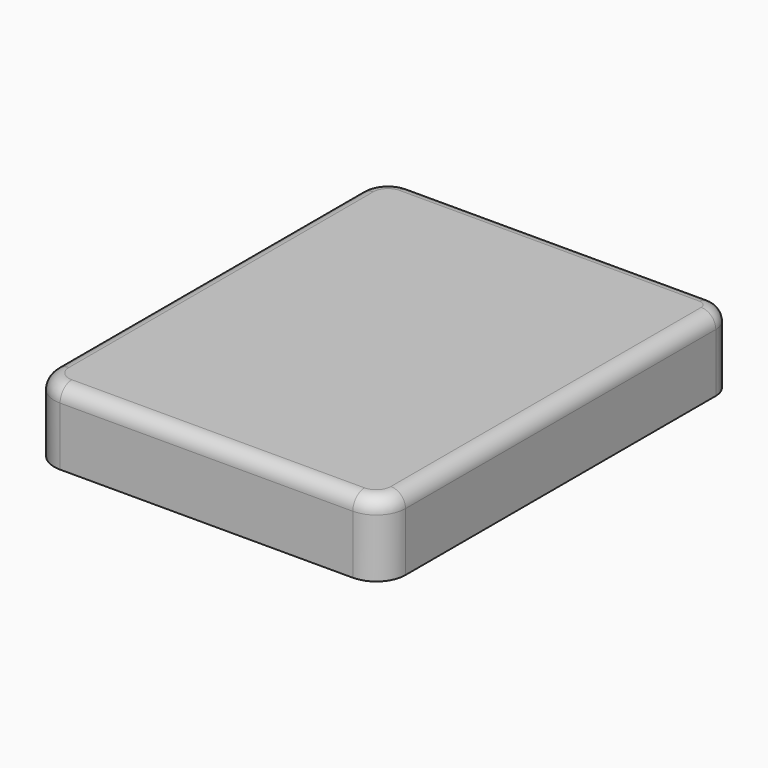
from build123d import *

# Parameters (mm, degrees)
BOX001_W     = 45
BOX001_H     = 57
BOX001_DEPTH = 11
BOX_W        = 48
BOX_H        = 60
BOX_DEPTH    = 10
FILLET004_R  = 4
FILLET005_R  = 4
FILLET006_R  = 4
FILLET007_R  = 3
FILLET008_R  = 2


with BuildPart() as box001:
    # Box001 → Box001 (new body)
    with BuildSketch(Plane(origin=(-2, -2, 46), x_dir=(1, 0, 0), z_dir=(0, 0, 1))):
        with Locations((22.5, 28.5)):
            Rectangle(BOX001_W, BOX001_H)
    extrude(amount=BOX001_DEPTH)


with BuildPart() as tapa001:
    # Box → Box (new body)
    with BuildSketch(Plane(origin=(-4, -4, 50), x_dir=(1, 0, 0), z_dir=(0, 0, 1))):
        with Locations((24, 30)):
            Rectangle(BOX_W, BOX_H)
    extrude(amount=BOX_DEPTH)

    # Cut: cut Box001
    add(box001.part, mode=Mode.SUBTRACT)

    # Fillet004
    fillet004_edges = [tapa001.edges().sort_by_distance(p)[0] for p in [
        (44, -4, 55),
    ]]
    fillet(fillet004_edges, radius=FILLET004_R)

    # Fillet005
    fillet005_edges = [tapa001.edges().sort_by_distance(p)[0] for p in [
        (-4, -4, 55),
    ]]
    fillet(fillet005_edges, radius=FILLET005_R)

    # Fillet006
    fillet006_edges = [tapa001.edges().sort_by_distance(p)[0] for p in [
        (-4, 56, 55),
    ]]
    fillet(fillet006_edges, radius=FILLET006_R)

    # Fillet007
    fillet007_edges = [tapa001.edges().sort_by_distance(p)[0] for p in [
        (44, 56, 55),
    ]]
    fillet(fillet007_edges, radius=FILLET007_R)

    # Fillet008
    fillet008_edges = [tapa001.edges().sort_by_distance(p)[0] for p in [
        (44, 26.5, 60),
    ]]
    fillet(fillet008_edges, radius=FILLET008_R)


solid = tapa001.part
